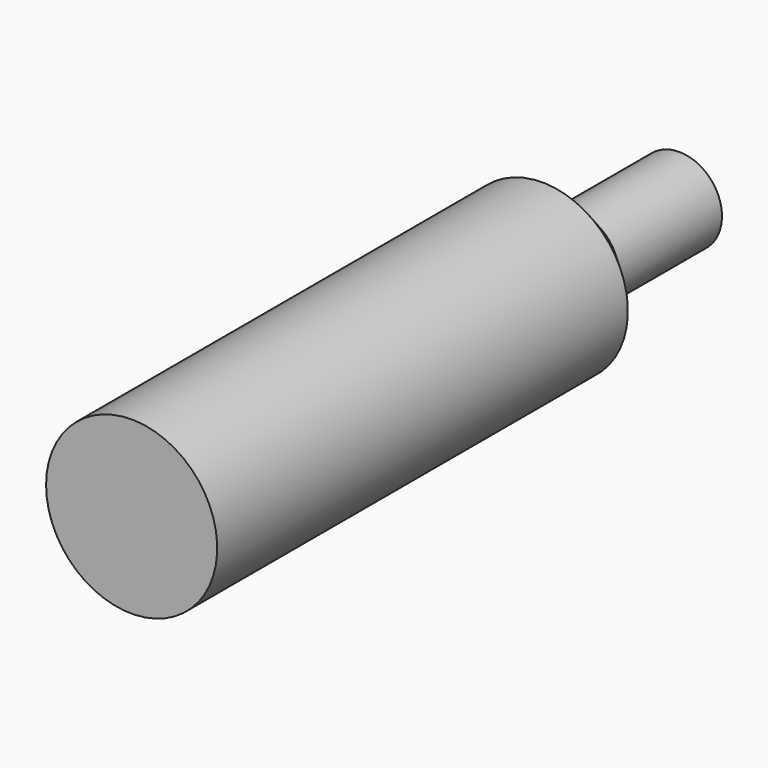
from build123d import *

# Parameters (mm, degrees)
F0_W   = 12.7
F0_H   = 76.2
F0_W_2 = 6.35
F0_H_2 = 19.05


with BuildPart() as f1:
    # F0 (on Top) → F1 (revolve)
    with BuildSketch(Plane.XY):
        with Locations((-7.297987, -34.377149)):
            Rectangle(F0_W, F0_H)
    revolve(axis=Axis((-0.947987, -34.377149, 0), (0, 1, 0)))

    # F0 (on Top) → F2 (revolve)
    with BuildSketch(Plane.XY):
        Polygon((-7.297987, 10.072851), (-13.647987, 3.722851), (-0.947987, 3.722851), (-0.947987, 10.072851), align=None)
    revolve(axis=Axis((-0.947987, 16.422851, 0), (0, 1, 0)))

    # F0 (on Top) → F3 (revolve)
    with BuildSketch(Plane.XY):
        with Locations((-4.122987, 19.597851)):
            Rectangle(F0_W_2, F0_H_2)
    revolve(axis=Axis((-0.947987, 16.422851, 0), (0, 1, 0)))


solid = f1.part
